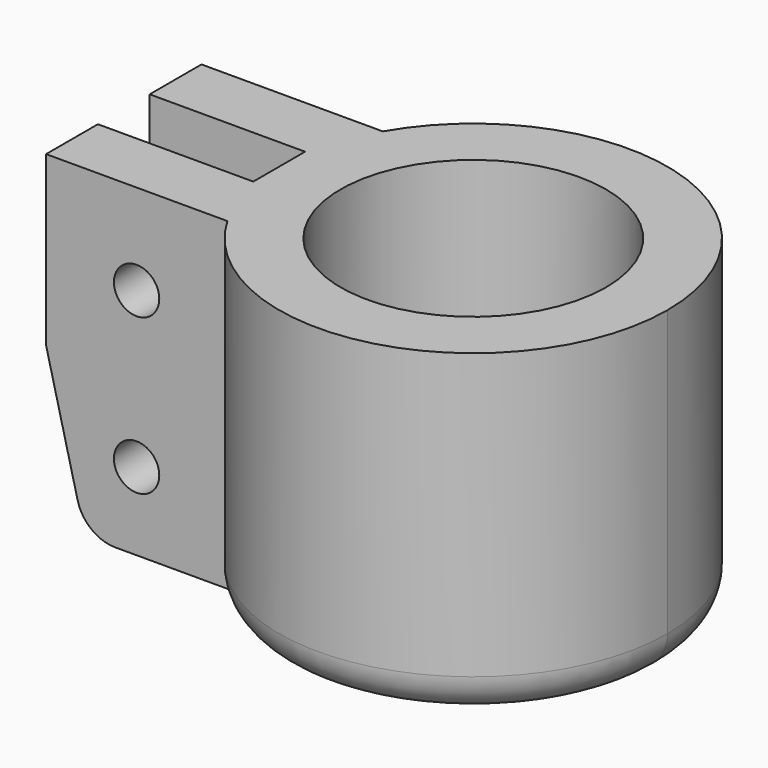
from build123d import *

# Parameters (mm, degrees)
SKETCH_R        = 10.25
PAD_DEPTH       = 25
SKETCH001_R     = 1.75
POCKET_DEPTH    = 22.501
POCKET001_DEPTH = 3
CHAMFER_SIZE2   = 12
CHAMFER_SIZE    = 3
FILLET_R        = 3
FILLET001_R     = 3


with BuildPart() as part:
    # Sketch → Pad (new body)
    with BuildSketch(Plane.XY):
        with BuildLine():
            ThreePointArc((15, 0), (3.882286, 14.488887), (-12.990381, 7.5))
            Line((-12.990381, 7.5), (-26.990381, 7.5))
            Line((-26.990381, 7.5), (-26.990381, 2.5))
            Line((-26.990381, 2.5), (-14.990381, 2.5))
            Line((-14.990381, 2.5), (-14.990381, -2.5))
            Line((-26.990381, -2.5), (-14.990381, -2.5))
            Line((-26.990381, -7.5), (-26.990381, -2.5))
            Line((-12.990381, -7.5), (-26.990381, -7.5))
            ThreePointArc((-12.990381, -7.5), (3.882286, -14.488887), (15, 0))
        make_face()
        Circle(SKETCH_R, mode=Mode.SUBTRACT)
    extrude(amount=PAD_DEPTH)

    # Sketch001 (on Face8 of Pad) → Pocket (cut, through all)
    with BuildSketch(Plane.XZ.offset(7.5)):
        with Locations((-20, 6)):
            Circle(SKETCH001_R)
        with Locations((-20, 18)):
            Circle(SKETCH001_R)
    extrude(amount=-POCKET_DEPTH, mode=Mode.SUBTRACT)

    # Sketch002 (on Face3 of Pocket) → Pocket001 (cut)
    with BuildSketch(Plane(origin=(0, 7.5, 0), x_dir=(-1, 0, 0), z_dir=(0, 1, 0))):
        Polygon((20, 2.75), (22.814583, 4.375), (22.814583, 7.625), (20, 9.25), (17.185417, 7.625), (17.185417, 4.375), align=None)
        Polygon((20, 14.75), (22.814583, 16.375), (22.814583, 19.625), (20, 21.25), (17.185417, 19.625), (17.185417, 16.375), align=None)
    extrude(amount=-POCKET001_DEPTH, mode=Mode.SUBTRACT)

    # Chamfer
    chamfer_edges = [part.edges().sort_by_distance(p)[0] for p in [
        (-26.990381, 5, 0),
        (-26.990381, -5, 0),
    ]]
    chamfer_side = part.faces().sort_by_distance((3.748719, 13.990411, 0))[0]
    chamfer(chamfer_edges, length=CHAMFER_SIZE, length2=CHAMFER_SIZE2, reference=chamfer_side)

    # Fillet
    fillet_edges = [part.edges().sort_by_distance(p)[0] for p in [
        (-23.990381, 5, 0),
        (-23.990381, -5, 0),
    ]]
    fillet(fillet_edges, radius=FILLET_R)

    # Fillet001
    fillet001_edges = [part.edges().sort_by_distance(p)[0] for p in [
        (3.882286, -14.488887, 0),
        (3.882286, 14.488887, 0),
    ]]
    fillet(fillet001_edges, radius=FILLET001_R)


solid = part.part
